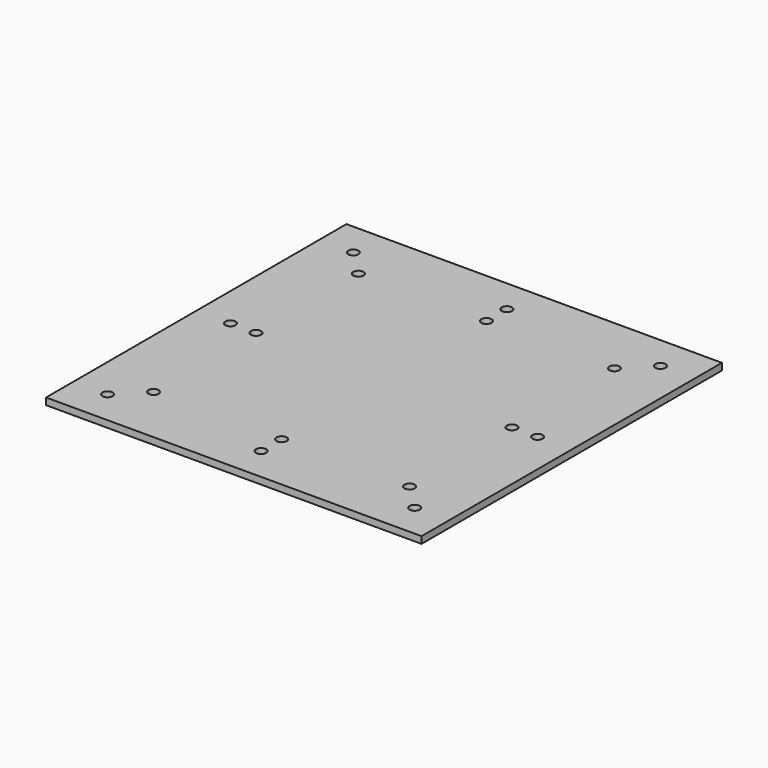
from build123d import *

# Parameters (mm, degrees)
F0_W     = 558.8
F0_H     = 558.8
F0_R     = 7.62
F1_DEPTH = 10.16


with BuildPart() as f1:
    # F0 (on Top) → F1 (new body)
    with BuildSketch(Plane.XY):
        Rectangle(F0_W, F0_H)
        with Locations((-228.6, -228.6)):
            Circle(F0_R, mode=Mode.SUBTRACT)
        with Locations((-190.5, -190.5)):
            Circle(F0_R, mode=Mode.SUBTRACT)
        with Locations((0, -228.6)):
            Circle(F0_R, mode=Mode.SUBTRACT)
        with Locations((0, -190.5)):
            Circle(F0_R, mode=Mode.SUBTRACT)
        with Locations((228.6, -228.6)):
            Circle(F0_R, mode=Mode.SUBTRACT)
        with Locations((190.5, -190.5)):
            Circle(F0_R, mode=Mode.SUBTRACT)
        with Locations((-228.6, 0)):
            Circle(F0_R, mode=Mode.SUBTRACT)
        with Locations((-190.5, 0)):
            Circle(F0_R, mode=Mode.SUBTRACT)
        with Locations((-190.5, 190.5)):
            Circle(F0_R, mode=Mode.SUBTRACT)
        with Locations((-228.6, 228.6)):
            Circle(F0_R, mode=Mode.SUBTRACT)
        with Locations((190.5, 0)):
            Circle(F0_R, mode=Mode.SUBTRACT)
        with Locations((228.6, 0)):
            Circle(F0_R, mode=Mode.SUBTRACT)
        with Locations((0, 190.5)):
            Circle(F0_R, mode=Mode.SUBTRACT)
        with Locations((0, 228.6)):
            Circle(F0_R, mode=Mode.SUBTRACT)
        with Locations((190.5, 190.5)):
            Circle(F0_R, mode=Mode.SUBTRACT)
        with Locations((228.6, 228.6)):
            Circle(F0_R, mode=Mode.SUBTRACT)
    extrude(amount=F1_DEPTH)


solid = f1.part
